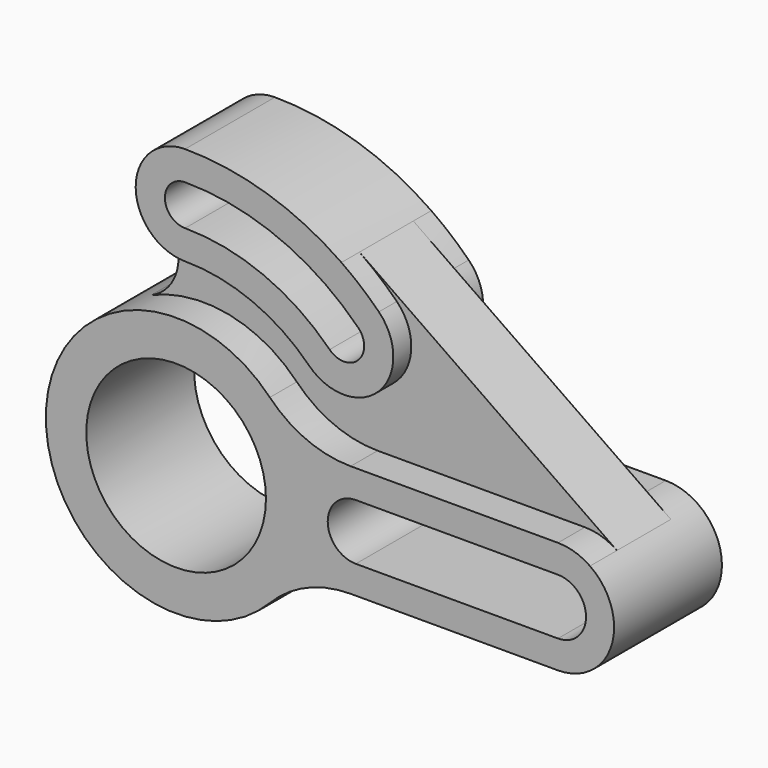
from build123d import *

# Parameters (mm, degrees)
F1_DEPTH = 15
F0_R     = 40
F2_DEPTH = 30
F3_DEPTH = 25
F4_DEPTH = 25


with BuildPart() as f1:
    # F0 (on Front) → F1 (new body, symmetric)
    with BuildSketch(Plane.XZ):
        with BuildLine():
            ThreePointArc((55.1543289326, 55.1543289326), (29.8493077245, 72.0626035359), (0, 78))
            ThreePointArc((0, 78), (-8.8522259778, 79.8595408384), (-16.2079905268, 85.1238095238))
            ThreePointArc((-16.2079905268, 85.1238095238), (-11.3825323132, 67.4278790278), (-23.0085459926, 53.241025641))
            ThreePointArc((-23.0085459926, 53.241025641), (11.3872373178, 56.8711774651), (41.7336868403, 40.2777777778))
            ThreePointArc((41.7336868403, 40.2777777778), (58.1676040827, 28.9776624284), (77.7110030819, 25))
            Line((77.7110030819, 25), (170, 25))
            ThreePointArc((170, 25), (177.4741993043, 23.8565786474), (184.2647058824, 20.5309075808))
            Line((184.2647058824, 20.5309075808), (69.6117647059, 100.1908289941))
            ThreePointArc((69.6117647059, 100.1908289941), (78.2497125429, 93.6001201225), (86.2670273048, 86.2670273048))
            ThreePointArc((86.2670273048, 86.2670273048), (86.2670273048, 55.1543289326), (55.1543289326, 55.1543289326))
        make_face()
    extrude(amount=F1_DEPTH, both=True)

    # F0 (on Front) → F2 (join, symmetric)
    with BuildSketch(Plane.XZ):
        with BuildLine():
            ThreePointArc((41.7336868403, 40.2777777778), (11.3872373178, 56.8711774651), (-23.0085459926, 53.241025641))
            ThreePointArc((-23.0085459926, 53.241025641), (-47.6875180017, -33.013643041), (41.7336868403, -40.2777777778))
            ThreePointArc((41.7336868403, -40.2777777778), (58.1676040827, -28.9776624284), (77.7110030819, -25))
            Line((77.7110030819, -25), (170, -25))
            ThreePointArc((170, -25), (193.8565786474, -7.4741993043), (184.2647058824, 20.5309075808))
            ThreePointArc((184.2647058824, 20.5309075808), (177.4741993043, 23.8565786474), (170, 25))
            Line((170, 25), (77.7110030819, 25))
            ThreePointArc((77.7110030819, 25), (58.1676040827, 28.9776624284), (41.7336868403, 40.2777777778))
        make_face()
        Circle(F0_R, mode=Mode.SUBTRACT)
        with BuildLine():
            Line((170, -12.5), (80, -12.5))
            ThreePointArc((80, -12.5), (67.5, 0), (80, 12.5))
            Line((80, 12.5), (170, 12.5))
            ThreePointArc((170, 12.5), (182.5, 0), (170, -12.5))
        make_face(mode=Mode.SUBTRACT)
    extrude(amount=F2_DEPTH, both=True)

    # F0 (on Front) → F3 (join, symmetric)
    with BuildSketch(Plane.XZ):
        with BuildLine():
            ThreePointArc((-16.2079905268, 85.1238095238), (-8.8522259778, 79.8595408384), (0, 78))
            ThreePointArc((0, 78), (29.8493077245, 72.0626035359), (55.1543289326, 55.1543289326))
            ThreePointArc((55.1543289326, 55.1543289326), (86.2670273048, 55.1543289326), (86.2670273048, 86.2670273048))
            ThreePointArc((86.2670273048, 86.2670273048), (78.2497125429, 93.6001201225), (69.6117647059, 100.1908289941))
            ThreePointArc((69.6117647059, 100.1908289941), (36.474092605, 116.4201037993), (0, 122))
            ThreePointArc((0, 122), (-20.1404591616, 108.8522259778), (-16.2079905268, 85.1238095238))
        make_face()
        with BuildLine():
            ThreePointArc((64.346717088, 64.346717088), (34.8241923452, 84.0730374585), (0, 91))
            ThreePointArc((0, 91), (-9, 100), (0, 109))
            ThreePointArc((0, 109), (41.7124941278, 100.7028690437), (77.0746391493, 77.0746391493))
            ThreePointArc((77.0746391493, 77.0746391493), (77.0746391493, 64.346717088), (64.346717088, 64.346717088))
        make_face(mode=Mode.SUBTRACT)
    extrude(amount=F3_DEPTH, both=True)

    # F0 (on Front) → F4 (join, symmetric)
    with BuildSketch(Plane.XZ):
        with BuildLine():
            ThreePointArc((-16.2079905268, 85.1238095238), (-8.8522259778, 79.8595408384), (0, 78))
            ThreePointArc((0, 78), (29.8493077245, 72.0626035359), (55.1543289326, 55.1543289326))
            ThreePointArc((55.1543289326, 55.1543289326), (86.2670273048, 55.1543289326), (86.2670273048, 86.2670273048))
            ThreePointArc((86.2670273048, 86.2670273048), (78.2497125429, 93.6001201225), (69.6117647059, 100.1908289941))
            ThreePointArc((69.6117647059, 100.1908289941), (36.474092605, 116.4201037993), (0, 122))
            ThreePointArc((0, 122), (-20.1404591616, 108.8522259778), (-16.2079905268, 85.1238095238))
        make_face()
        with BuildLine():
            ThreePointArc((64.346717088, 64.346717088), (34.8241923452, 84.0730374585), (0, 91))
            ThreePointArc((0, 91), (-9, 100), (0, 109))
            ThreePointArc((0, 109), (41.7124941278, 100.7028690437), (77.0746391493, 77.0746391493))
            ThreePointArc((77.0746391493, 77.0746391493), (77.0746391493, 64.346717088), (64.346717088, 64.346717088))
        make_face(mode=Mode.SUBTRACT)
    extrude(amount=F4_DEPTH, both=True)


solid = f1.part
